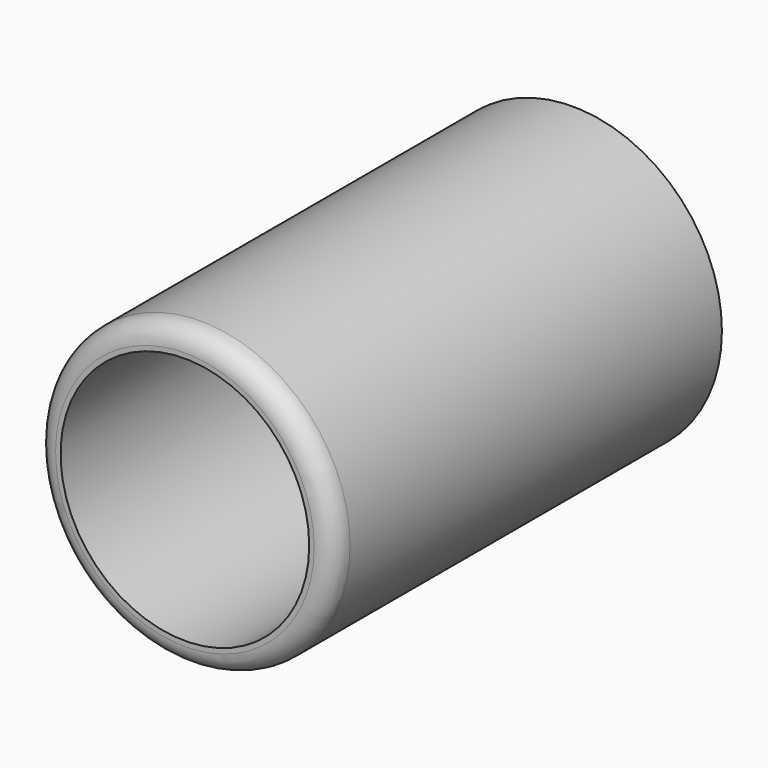
from build123d import *

# Parameters (mm, degrees)
F0_R     = 38.1
F0_R_2   = 31.75
F1_DEPTH = 123.825
F2_R     = 38.1
F3_DEPTH = 6.35
F4_R     = 5.08


with BuildPart() as f1:
    # F0 (on Front) → F1 (new body)
    with BuildSketch(Plane.XZ):
        Circle(F0_R)
        Circle(F0_R_2, mode=Mode.SUBTRACT)
    extrude(amount=F1_DEPTH)

    # F2 (on Front) → F3 (join)
    with BuildSketch(Plane.XZ):
        Circle(F2_R)
    extrude(amount=F3_DEPTH)

    # F4
    f4_edges = [f1.edges().sort_by_distance(p)[0] for p in [
        (-38.1, -123.825, 0),
    ]]
    fillet(f4_edges, radius=F4_R)


solid = f1.part
